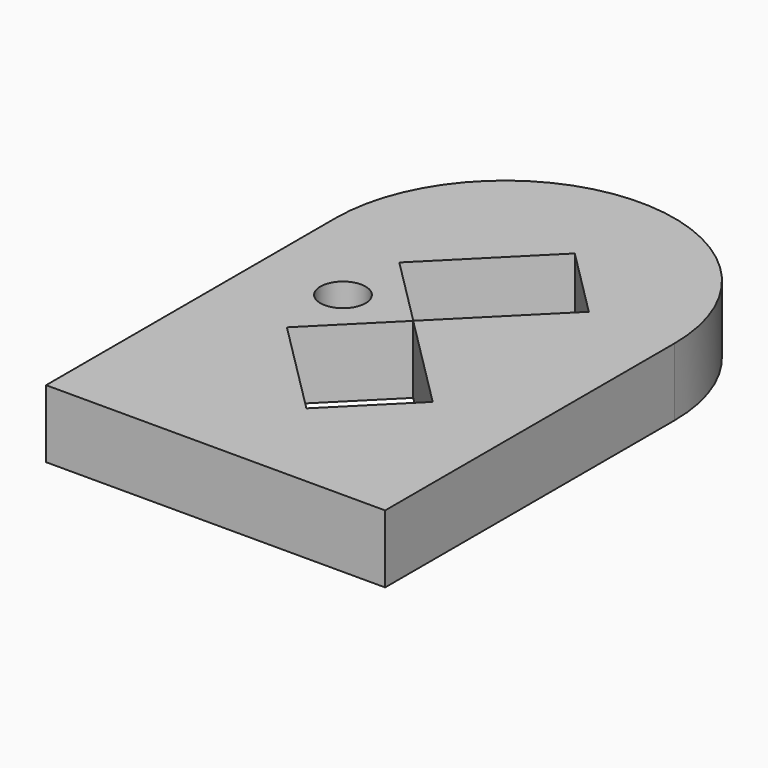
from build123d import *

# Parameters (mm, degrees)
F0_R     = 1
F1_DEPTH = 3


with BuildPart() as f1:
    # F0 (on Top) → F1 (new body)
    with BuildSketch(Plane.XY):
        with BuildLine():
            Line((11.210543, -11.683113), (11.210543, 4.316887))
            ThreePointArc((11.210543, 4.316887), (3.710543, 11.816887), (-3.789457, 4.316887))
            Line((-3.789457, 4.316887), (-3.789457, -11.683113))
            Line((-3.789457, -11.683113), (11.210543, -11.683113))
        make_face()
        with BuildLine():
            ThreePointArc((1.555635, 1.555635), (2.032535, 0.841904), (2.2, 0))
            ThreePointArc((2.2, 0), (2.032535, -0.841904), (1.555635, -1.555635))
            ThreePointArc((1.555635, -1.555635), (-2.2, 0), (1.555635, 1.555635))
        make_face(mode=Mode.SUBTRACT)
        Polygon((0.003536, -3.107734), (1.555635, -1.555635), (3.107734, -0.003536), (7.421086, -4.316887), (4.316887, -7.421086), align=None, mode=Mode.SUBTRACT)
        Polygon((3.107734, 0.003536), (1.555635, 1.555635), (0.003536, 3.107734), (4.316887, 7.421086), (7.421086, 4.316887), align=None, mode=Mode.SUBTRACT)
        with BuildLine():
            ThreePointArc((1.555635, -1.555635), (2.032535, -0.841904), (2.2, 0))
            ThreePointArc((2.2, 0), (2.032535, 0.841904), (1.555635, 1.555635))
            ThreePointArc((1.555635, 1.555635), (-2.2, 0), (1.555635, -1.555635))
        make_face()
        Circle(F0_R, mode=Mode.SUBTRACT)
    extrude(amount=F1_DEPTH)


solid = f1.part
